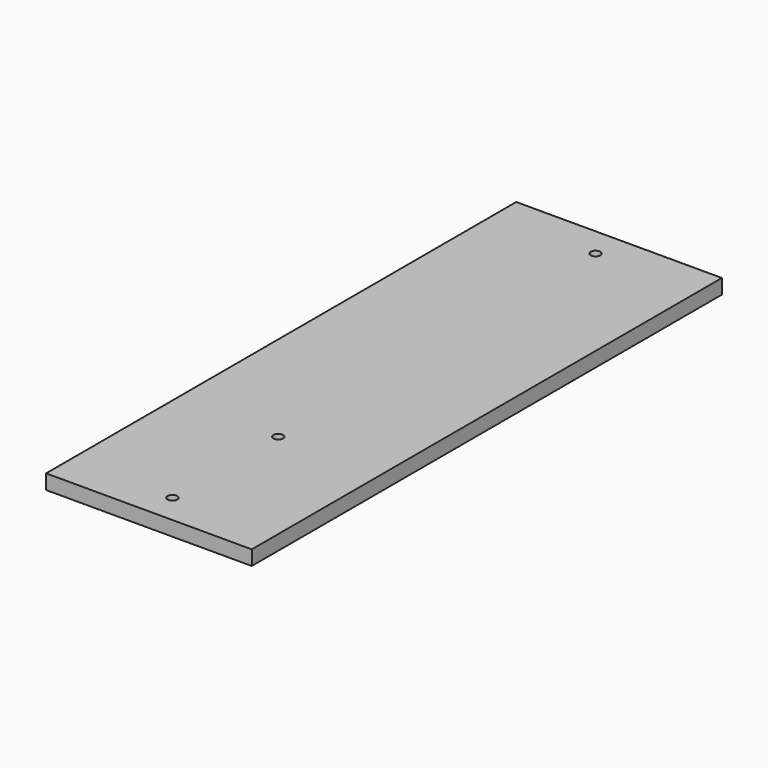
from build123d import *

# Parameters (mm, degrees)
F0_W     = 70
F0_H     = 200
F1_DEPTH = 5
F3_D     = 3.3


with BuildPart() as f1:
    # F0 (on Top) → F1 (new body)
    with BuildSketch(Plane.XY):
        with Locations((35, 100)):
            Rectangle(F0_W, F0_H)
    extrude(amount=F1_DEPTH)

    # F3 (through all)
    with Locations(Plane.XY.offset(5)):
        with Locations((35, 190), (35, 55), (35, 10)):
            Hole(F3_D / 2)


solid = f1.part
